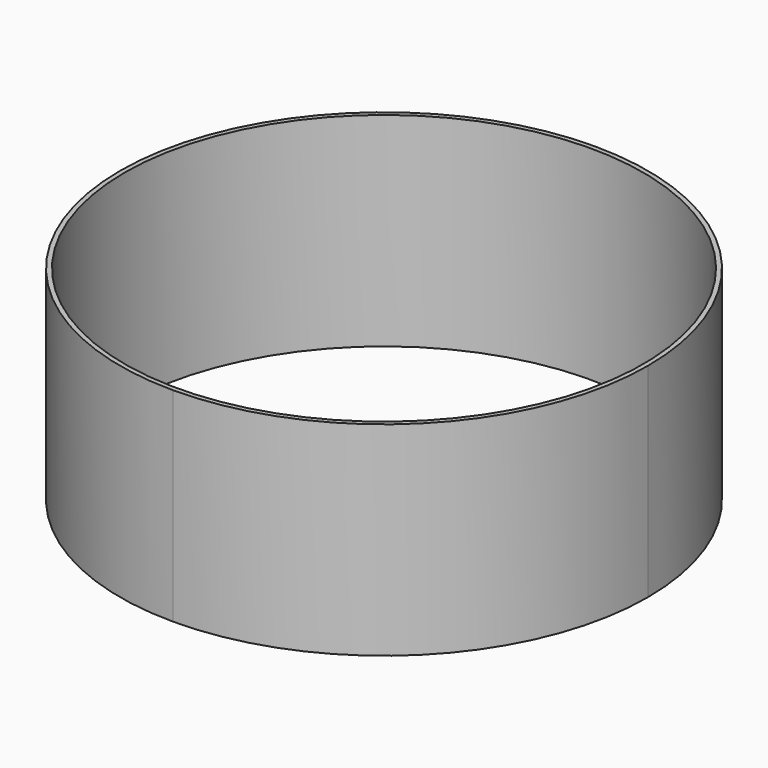
from build123d import *

# Parameters (mm, degrees)
F1_DEPTH = 22
F2_D     = 56


with BuildPart() as f1:
    # F0 (on Top) → F1 (new body)
    with BuildSketch(Plane.XY):
        with BuildLine():
            Line((0, 0), (28.5, 0))
            ThreePointArc((28.5, 0), (20.1525432638, 20.1525432638), (0, 28.5))
            Line((0, 28.5), (0, 0))
        make_face()
        with BuildLine():
            Line((0, 0), (0, 28.5))
            ThreePointArc((0, 28.5), (-20.1525432638, 20.1525432638), (-28.5, 0))
            Line((-28.5, 0), (0, 0))
        make_face()
        with BuildLine():
            ThreePointArc((-28.5, 0), (-20.1525432638, -20.1525432638), (0, -28.5))
            Line((0, -28.5), (0, 0))
            Line((0, 0), (-28.5, 0))
        make_face()
        with BuildLine():
            ThreePointArc((0, -28.5), (20.1525432638, -20.1525432638), (28.5, 0))
            Line((28.5, 0), (0, 0))
            Line((0, 0), (0, -28.5))
        make_face()
    extrude(amount=F1_DEPTH)

    # F2 (through all)
    with Locations(Plane(origin=(0, 0, 0), x_dir=(1, 0, 0), z_dir=(0, 0, -1))):
        with Locations((0, 0)):
            Hole(F2_D / 2)


solid = f1.part
